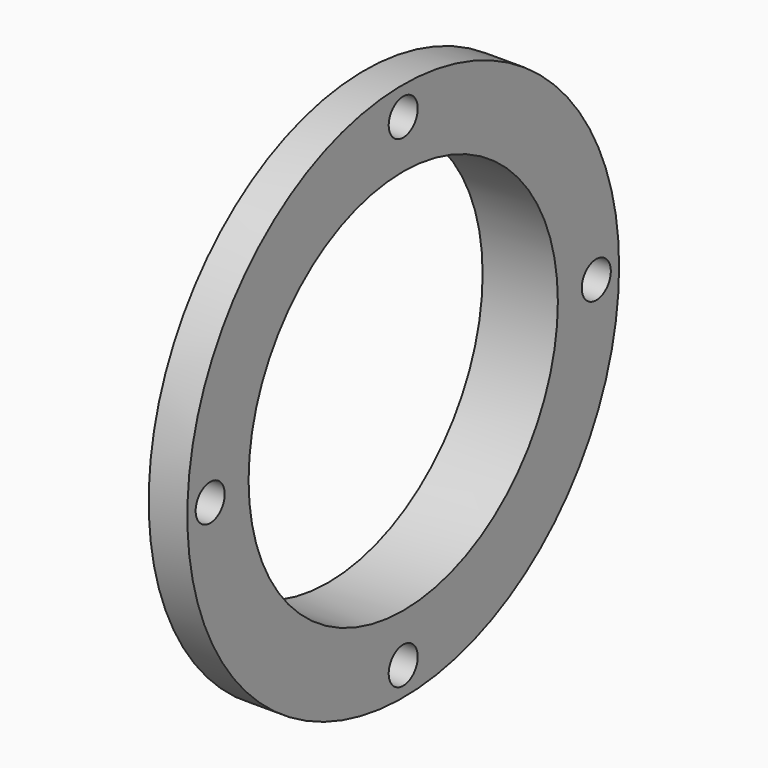
from build123d import *

# Parameters (mm, degrees)
F0_R     = 104
F1_DEPTH = 14.9
F2_R     = 80
F3_DEPTH = 14.1
F4_SIZE  = 2
F6_D     = 149
F8_D     = 14


with BuildPart() as f1:
    # F0 (on Right) → F1 (new body)
    with BuildSketch(Plane.YZ):
        Circle(F0_R)
    extrude(amount=F1_DEPTH)

    # F2 (on face) → F3 (join)
    with BuildSketch(Plane(origin=(0, 0, 0), x_dir=(0, -1, 0), z_dir=(-1, 0, 0))):
        Circle(F2_R)
    extrude(amount=F3_DEPTH)

    # F4
    f4_edges = [f1.edges().sort_by_distance(p)[0] for p in [
        (-14.1, 80, 0),
    ]]
    chamfer(f4_edges, length=F4_SIZE)

    # F6 (through all)
    with Locations(Plane.YZ.offset(14.9)):
        with Locations((0, 0)):
            Hole(F6_D / 2)

    # F8 (through all)
    with Locations(Plane.YZ.offset(14.9)):
        with Locations((93, 0), (0, -93), (-93, 0), (0, 93)):
            Hole(F8_D / 2)


solid = f1.part
